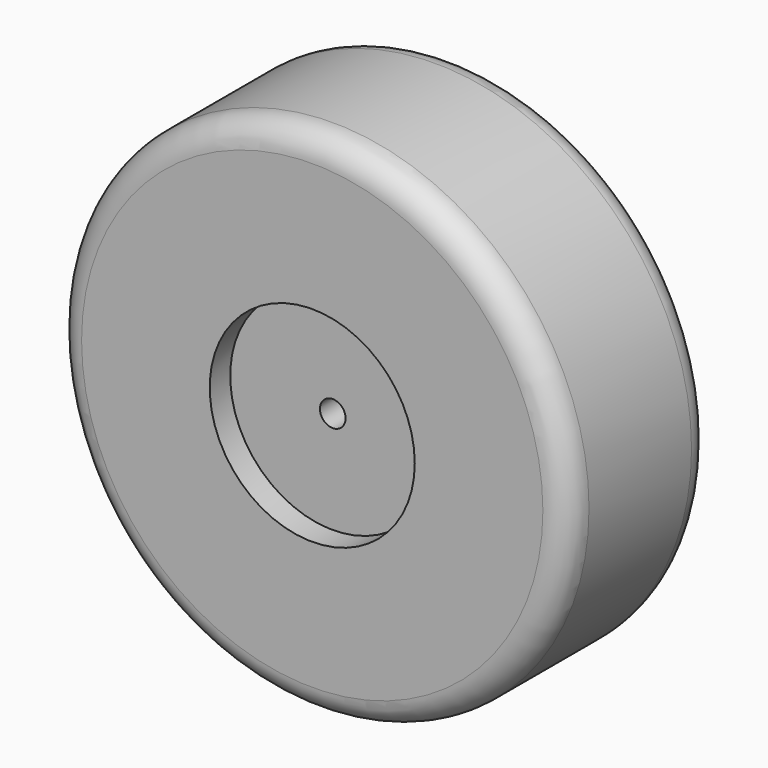
from build123d import *

# Parameters (mm, degrees)
F0_R     = 254
F1_DEPTH = 88.9
F2_R     = 101.6
F3_DEPTH = 25.4
F4_R     = 101.6
F5_DEPTH = 25.4
F6_R     = 12.7
F7_DEPTH = 127
F8_R     = 12.7
F9_DEPTH = 177.8
F10_R    = 25.4


with BuildPart() as f1:
    # F0 (on Front) → F1 (new body, symmetric)
    with BuildSketch(Plane.XZ):
        Circle(F0_R)
    extrude(amount=F1_DEPTH, both=True)

    # F2 (on face) → F3 (cut)
    with BuildSketch(Plane(origin=(0, 88.9, 0), x_dir=(-1, 0, 0), z_dir=(0, 1, 0))):
        Circle(F2_R)
    extrude(amount=-F3_DEPTH, mode=Mode.SUBTRACT)

    # F4 (on face) → F5 (cut)
    with BuildSketch(Plane.XZ.offset(88.9)):
        Circle(F4_R)
    extrude(amount=-F5_DEPTH, mode=Mode.SUBTRACT)

    # F6 (on face) → F7 (cut)
    with BuildSketch(Plane(origin=(0, 63.5, 0), x_dir=(-1, 0, 0), z_dir=(0, 1, 0))):
        Circle(F6_R)
    extrude(amount=-F7_DEPTH, mode=Mode.SUBTRACT)

    # F8 (on face) → F9 (cut, symmetric)
    with BuildSketch(Plane(origin=(0, 88.9, 0), x_dir=(-1, 0, 0), z_dir=(0, 1, 0))):
        Circle(F8_R)
    extrude(amount=F9_DEPTH, both=True, mode=Mode.SUBTRACT)

    # F10
    f10_edges = [f1.edges().sort_by_distance(p)[0] for p in [
        (-254, -88.9, 0),
        (-254, 88.9, 0),
    ]]
    fillet(f10_edges, radius=F10_R)


solid = f1.part
